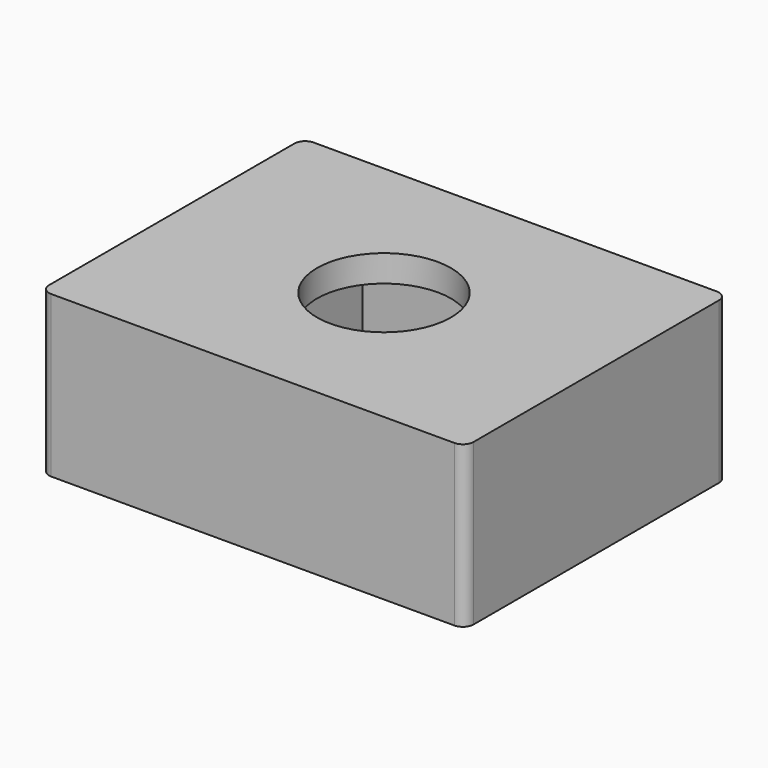
from build123d import *

# Parameters (mm, degrees)
FACE001_W        = 12.25
FACE001_H        = 15.85
FACE001_W_2      = 8
FACE001_H_2      = 8
EXTRUDE001_DEPTH = 4
SKETCH_W         = 15.85
SKETCH_H         = 12.25
EXTRUDE_DEPTH    = 1
FACE002_W        = 12.25
FACE002_H        = 15.85
FACE002_R        = 2.5
EXTRUDE002_DEPTH = 1
FILLET_R         = 0.4


with BuildPart() as extrude001:
    # Face001 → Extrude001 (new body)
    with BuildSketch(Plane(origin=(7.925, 6.125, 1), x_dir=(0, 1, 0), z_dir=(0, 0, 1))):
        Rectangle(FACE001_W, FACE001_H)
        Rectangle(FACE001_W_2, FACE001_H_2, mode=Mode.SUBTRACT)
    extrude(amount=EXTRUDE001_DEPTH)


with BuildPart() as fusion:
    # Sketch → Extrude (new body)
    with BuildSketch(Plane.XY):
        with Locations((7.925, 6.125)):
            Rectangle(SKETCH_W, SKETCH_H)
    extrude(amount=EXTRUDE_DEPTH)

    # Fusion: union Extrude001
    add(extrude001.part)


with BuildPart() as fillet_body:
    # Face002 → Extrude002 (new body)
    with BuildSketch(Plane(origin=(7.925, 6.125, 5), x_dir=(0, 1, 0), z_dir=(0, 0, 1))):
        Rectangle(FACE002_W, FACE002_H)
        Circle(FACE002_R, mode=Mode.SUBTRACT)
    extrude(amount=EXTRUDE002_DEPTH)

    # Fusion001: union Fusion
    add(fusion.part)

    # Fillet
    fillet_edges = [fillet_body.edges().sort_by_distance(p)[0] for p in [
        (15.85, 12.25, 5.5),
        (0, 12.25, 5.5),
        (15.85, 0, 5.5),
        (0, 0, 5.5),
        (15.85, 12.25, 3),
        (0, 12.25, 3),
        (15.85, 0, 3),
        (0, 0, 3),
        (15.85, 12.25, 0.5),
        (0, 12.25, 0.5),
        (15.85, 0, 0.5),
        (0, 0, 0.5),
    ]]
    fillet(fillet_edges, radius=FILLET_R)


solid = fillet_body.part
